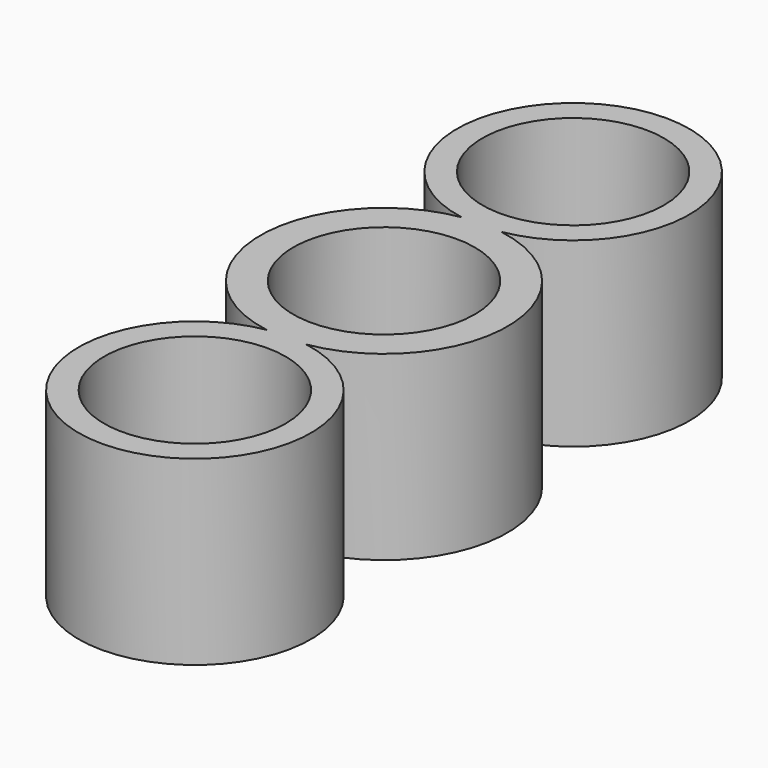
from build123d import *

# Parameters (mm, degrees)
F0_R     = 12.5
F1_DEPTH = 25


with BuildPart() as f1:
    # F0 (on Top) → F1 (new body)
    with BuildSketch(Plane.XY):
        with BuildLine():
            ThreePointArc((-2.712815, 16.782152), (-17, 0), (-2.712815, -16.782152))
            ThreePointArc((-2.712815, -16.782152), (0, -48.550495), (2.712815, -16.782152))
            ThreePointArc((2.712815, -16.782152), (17, 0), (2.712815, 16.782152))
            ThreePointArc((2.712815, 16.782152), (0, 48.550495), (-2.712815, 16.782152))
        make_face()
        with Locations((0, -32.550495)):
            Circle(F0_R, mode=Mode.SUBTRACT)
        Circle(F0_R, mode=Mode.SUBTRACT)
        with Locations((0, 32.550495)):
            Circle(F0_R, mode=Mode.SUBTRACT)
    extrude(amount=F1_DEPTH)


solid = f1.part
